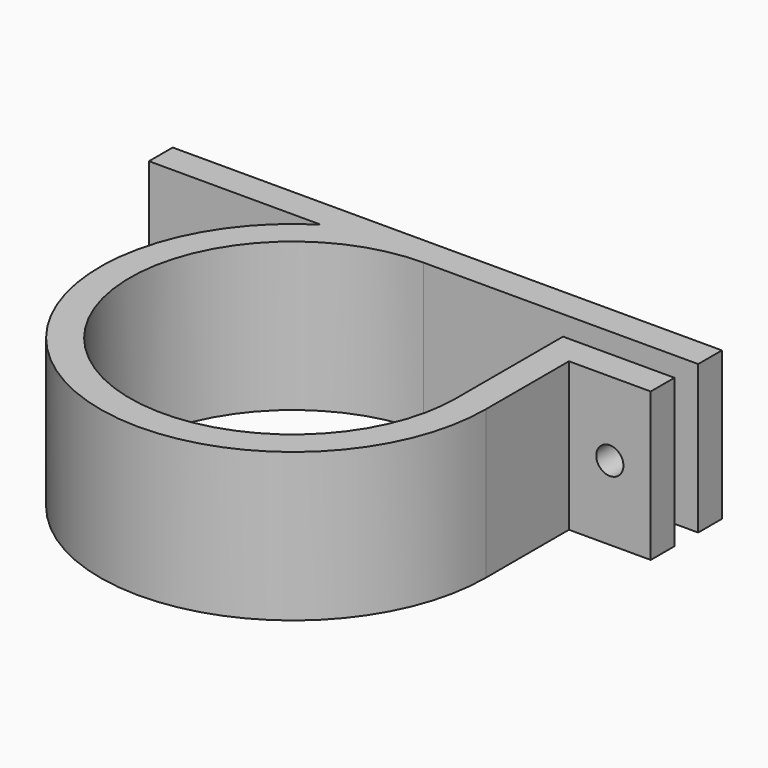
from build123d import *

# Parameters (mm, degrees)
F1_DEPTH = 12.7
F2_R     = 1.132453
F2_R_2   = 1.163109
F3_DEPTH = 33.021


with BuildPart() as f1:
    # F0 (on Top) → F1 (new body)
    with BuildSketch(Plane.XY):
        with BuildLine():
            ThreePointArc((13.97, 0), (-9.878282, -9.878282), (0, 13.97))
            Line((0, 13.97), (23.51, 13.97))
            Line((23.51, 13.97), (23.51, 16.51))
            Line((23.51, 16.51), (-23.51, 16.51))
            Line((-23.51, 16.51), (-23.51, 13.97))
            Line((-23.51, 13.97), (-8.798818, 13.97))
            ThreePointArc((-8.798818, 13.97), (-7.978459, -14.454214), (16.51, 0))
            Line((16.51, 0), (16.51, 8.89))
            Line((16.51, 8.89), (23.51, 8.89))
            Line((23.51, 8.89), (23.51, 11.43))
            Line((23.51, 11.43), (13.97, 11.43))
            Line((13.97, 11.43), (13.97, 0))
        make_face()
    extrude(amount=F1_DEPTH)

    # F2 (on face) → F3 (cut, through all)
    with BuildSketch(Plane(origin=(0, 16.51, 0), x_dir=(-1, 0, 0), z_dir=(0, 1, 0))):
        with Locations((20.01, 6.35)):
            Circle(F2_R)
        with Locations((-20.01, 6.35)):
            Circle(F2_R_2)
    extrude(amount=-F3_DEPTH, mode=Mode.SUBTRACT)


solid = f1.part
